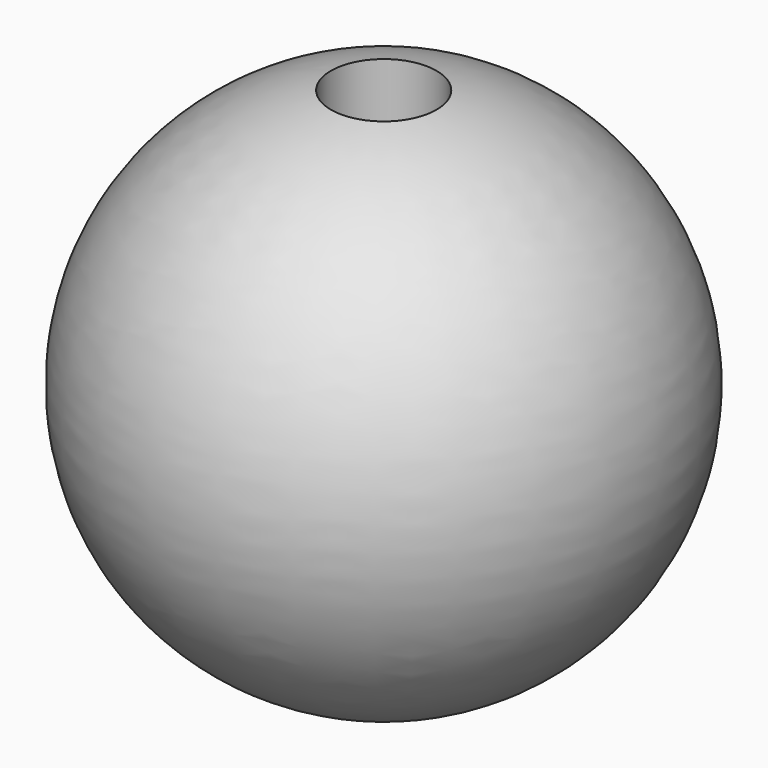
from build123d import *


with BuildPart() as f1:
    # F0 (on Front) → F1 (revolve)
    with BuildSketch(Plane.XZ):
        with BuildLine():
            Line((-0.5, 0), (-0.5, 2.44949))
            ThreePointArc((-0.5, 2.44949), (-2.48734, -0.251272), (0, -2.5))
            Line((0, -2.5), (0, 0))
            Line((0, 0), (-0.5, 0))
        make_face()
    revolve(axis=Axis((0, 0, -1.25), (0, 0, -1)))


solid = f1.part
